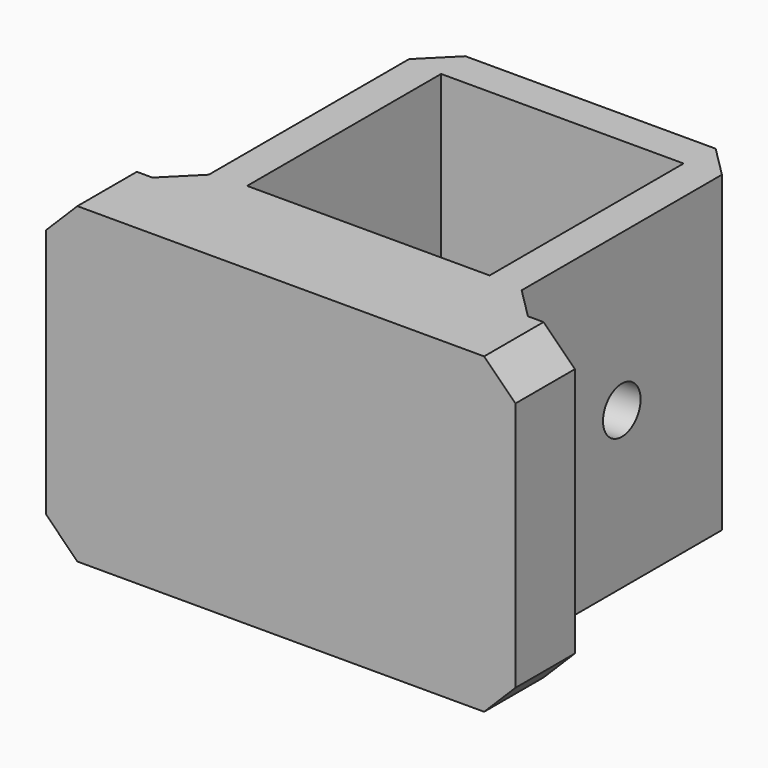
from build123d import *

# Parameters (mm, degrees)
F0_W     = 20
F0_H     = 20
F0_W_2   = 15.5
F0_H_2   = 15.5
F1_DEPTH = 20
F2_SIZE  = 2
F3_R     = 1.5
F4_DEPTH = 25


with BuildPart() as f1:
    # F0 (on Top) → F1 (new body)
    with BuildSketch(Plane.XY):
        with Locations((-40.922806, 22.305217)):
            Rectangle(F0_W, F0_H)
        with Locations((-40.922806, 22.305217)):
            Rectangle(F0_W_2, F0_H_2, mode=Mode.SUBTRACT)
        Polygon((-30.922806, 12.305217), (-50.922806, 12.305217), (-55.922806, 12.305217), (-55.922806, 7.555217), (-25.922806, 7.555217), (-25.922806, 12.305217), align=None)
    extrude(amount=F1_DEPTH)

    # F2
    f2_edges = [f1.edges().sort_by_distance(p)[0] for p in [
        (-50.922806, 32.305217, 10),
        (-30.922806, 32.305217, 10),
        (-25.922806, 9.930217, 20),
        (-55.922806, 9.930217, 20),
        (-55.922806, 9.930217, 0),
        (-25.922806, 9.930217, 0),
        (-30.922806, 12.305217, 10),
        (-50.922806, 12.305217, 10),
    ]]
    chamfer(f2_edges, length=F2_SIZE)

    # F3 (on face) → F4 (cut)
    with BuildSketch(Plane(origin=(-50.922806, 0, 0), x_dir=(0, -1, 0), z_dir=(-1, 0, 0))):
        with Locations((-22.305217, 10)):
            Circle(F3_R)
    extrude(amount=-F4_DEPTH, mode=Mode.SUBTRACT)


solid = f1.part
